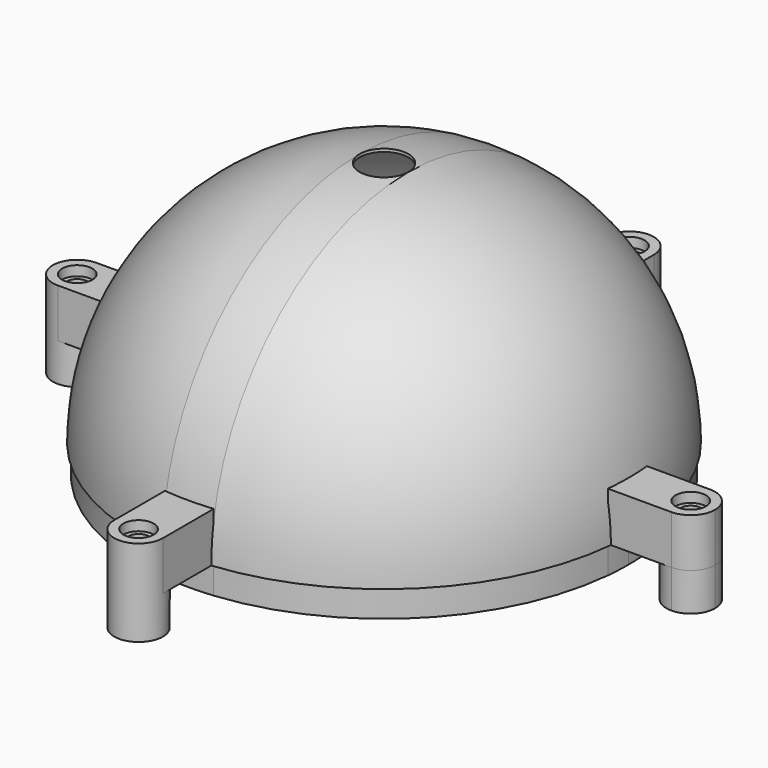
from build123d import *

# Parameters (mm, degrees)
F1_ANGLE = 180
F2_DEPTH = 5
F0_R     = 1.0740208256
F3_DEPTH = 2.84
F4_DEPTH = 3.9
F5_R     = 1.5549983164
F5_R_2   = 1.0740208256
F6_DEPTH = 1
F7_DEPTH = 50


with BuildPart() as f1:
    # F0 (on Top) → F1 (revolve)
    with BuildSketch(Plane.XY):
        with BuildLine():
            Line((24.975187687, 2.5), (25.2766690844, 2.5))
            ThreePointArc((25.2766690844, 2.5), (17.9605122421, 17.9605122421), (2.5, 25.2766690844))
            Line((2.5, 25.2766690844), (2.5, 24.975187687))
            ThreePointArc((2.5, 24.975187687), (17.7483802078, 17.7483802078), (24.975187687, 2.5))
        make_face()
        with BuildLine():
            Line((25.1, 0), (25.4, 0))
            ThreePointArc((25.4, 0), (25.3691485346, 1.2515201272), (25.2766690844, 2.5))
            Line((25.2766690844, 2.5), (24.975187687, 2.5))
            ThreePointArc((24.975187687, 2.5), (25.0687775025, 1.2515568418), (25.1, 0))
        make_face()
        with BuildLine():
            Line((2.5, 24.975187687), (2.5, 25.2766690844))
            ThreePointArc((2.5, 25.2766690844), (0, 25.4), (-2.5, 25.2766690844))
            Line((-2.5, 25.2766690844), (-2.5, 24.975187687))
            ThreePointArc((-2.5, 24.975187687), (0, 25.1), (2.5, 24.975187687))
        make_face()
        with BuildLine():
            Line((-2.5, 24.975187687), (-2.5, 25.2766690844))
            ThreePointArc((-2.5, 25.2766690844), (-17.9605122421, 17.9605122421), (-25.2766690844, 2.5))
            Line((-25.2766690844, 2.5), (-24.975187687, 2.5))
            ThreePointArc((-24.975187687, 2.5), (-17.7483802078, 17.7483802078), (-2.5, 24.975187687))
        make_face()
        with BuildLine():
            Line((-24.975187687, 2.5), (-25.2766690844, 2.5))
            ThreePointArc((-25.2766690844, 2.5), (-25.3691485346, 1.2515201272), (-25.4, 0))
            Line((-25.4, 0), (-25.1, 0))
            ThreePointArc((-25.1, 0), (-25.0687775025, 1.2515568418), (-24.975187687, 2.5))
        make_face()
    revolve(axis=Axis((0.945251435, 0, 0), (1, 0, 0)), revolution_arc=F1_ANGLE)



with BuildPart() as f2:
    # F0 (on Top) → F2 (new body)
    with BuildSketch(Plane.XY):
        with BuildLine():
            ThreePointArc((25.2766690844, 2.5), (25.3691485346, 1.2515201272), (25.4, 0))
            Line((25.4, 0), (28.9766690844, 0))
            ThreePointArc((28.9766690844, 0), (29.7089021314, 1.767766953), (31.4766690844, 2.5))
            Line((31.4766690844, 2.5), (25.2766690844, 2.5))
        make_face()
        with BuildLine():
            Line((28.9766690844, 0), (25.4, 0))
            ThreePointArc((25.4, 0), (25.3691485346, -1.2515201272), (25.2766690844, -2.5))
            Line((25.2766690844, -2.5), (31.4766690844, -2.5))
            ThreePointArc((31.4766690844, -2.5), (29.7089021314, -1.767766953), (28.9766690844, 0))
        make_face()
        with BuildLine():
            ThreePointArc((31.4766690844, 2.5), (29.7089021314, 1.767766953), (28.9766690844, 0))
            Line((28.9766690844, 0), (30.4026482587, 0))
            ThreePointArc((30.4026482587, 0), (31.4766690844, 1.0740208256), (32.55068991, 0))
            Line((32.55068991, 0), (33.9766690844, 0))
            ThreePointArc((33.9766690844, 0), (33.2444360373, 1.767766953), (31.4766690844, 2.5))
        make_face()
        with BuildLine():
            Line((30.4026482587, 0), (28.9766690844, 0))
            ThreePointArc((28.9766690844, 0), (29.7089021314, -1.767766953), (31.4766690844, -2.5))
            ThreePointArc((31.4766690844, -2.5), (33.2444360373, -1.767766953), (33.9766690844, 0))
            Line((33.9766690844, 0), (32.55068991, 0))
            ThreePointArc((32.55068991, 0), (31.4766690844, -1.0740208256), (30.4026482587, 0))
        make_face()
        with BuildLine():
            Line((25.1, 0), (25.4, 0))
            ThreePointArc((25.4, 0), (25.3691485346, 1.2515201272), (25.2766690844, 2.5))
            Line((25.2766690844, 2.5), (24.975187687, 2.5))
            ThreePointArc((24.975187687, 2.5), (25.0687775025, 1.2515568418), (25.1, 0))
        make_face()
        with BuildLine():
            ThreePointArc((25.2766690844, -2.5), (25.3691485346, -1.2515201272), (25.4, 0))
            Line((25.4, 0), (25.1, 0))
            ThreePointArc((25.1, 0), (25.0687775025, -1.2515568418), (24.975187687, -2.5))
            Line((24.975187687, -2.5), (25.2766690844, -2.5))
        make_face()
    extrude(amount=F2_DEPTH)


with BuildPart() as f2b:
    # F0 (on Top) → F2, piece 2 (new body)
    with BuildSketch(Plane.XY):
        with BuildLine():
            Line((2.5, 24.975187687), (2.5, 25.2766690844))
            ThreePointArc((2.5, 25.2766690844), (0, 25.4), (-2.5, 25.2766690844))
            Line((-2.5, 25.2766690844), (-2.5, 24.975187687))
            ThreePointArc((-2.5, 24.975187687), (0, 25.1), (2.5, 24.975187687))
        make_face()
        with BuildLine():
            ThreePointArc((-2.5, 25.2766690844), (0, 25.4), (2.5, 25.2766690844))
            Line((2.5, 25.2766690844), (2.5, 31.4766690844))
            ThreePointArc((2.5, 31.4766690844), (0, 28.9766690844), (-2.5, 31.4766690844))
            Line((-2.5, 31.4766690844), (-2.5, 25.2766690844))
        make_face()
        with BuildLine():
            ThreePointArc((-2.5, 31.4766690844), (0, 28.9766690844), (2.5, 31.4766690844))
            ThreePointArc((2.5, 31.4766690844), (0, 33.9766690844), (-2.5, 31.4766690844))
        make_face()
        with Locations((0, 31.4766690844)):
            Circle(F0_R, mode=Mode.SUBTRACT)
    extrude(amount=F2_DEPTH)


with BuildPart() as f2c:
    # F0 (on Top) → F2, piece 3 (new body)
    with BuildSketch(Plane.XY):
        with BuildLine():
            ThreePointArc((-25.4, 0), (-25.3691485346, 1.2515201272), (-25.2766690844, 2.5))
            Line((-25.2766690844, 2.5), (-31.4766690844, 2.5))
            ThreePointArc((-31.4766690844, 2.5), (-29.7089021314, 1.767766953), (-28.9766690844, 0))
            Line((-28.9766690844, 0), (-25.4, 0))
        make_face()
        with BuildLine():
            ThreePointArc((-28.9766690844, 0), (-29.7089021314, 1.767766953), (-31.4766690844, 2.5))
            ThreePointArc((-31.4766690844, 2.5), (-33.2444360373, 1.767766953), (-33.9766690844, 0))
            Line((-33.9766690844, 0), (-32.55068991, 0))
            ThreePointArc((-32.55068991, 0), (-31.4766690844, 1.0740208256), (-30.4026482587, 0))
            Line((-30.4026482587, 0), (-28.9766690844, 0))
        make_face()
        with BuildLine():
            ThreePointArc((-33.9766690844, 0), (-33.2444360373, -1.767766953), (-31.4766690844, -2.5))
            ThreePointArc((-31.4766690844, -2.5), (-29.7089021314, -1.767766953), (-28.9766690844, 0))
            Line((-28.9766690844, 0), (-30.4026482587, 0))
            ThreePointArc((-30.4026482587, 0), (-31.4766690844, -1.0740208256), (-32.55068991, 0))
            Line((-32.55068991, 0), (-33.9766690844, 0))
        make_face()
        with BuildLine():
            Line((-31.4766690844, -2.5), (-25.2766690844, -2.5))
            ThreePointArc((-25.2766690844, -2.5), (-25.3691485346, -1.2515201272), (-25.4, 0))
            Line((-25.4, 0), (-28.9766690844, 0))
            ThreePointArc((-28.9766690844, 0), (-29.7089021314, -1.767766953), (-31.4766690844, -2.5))
        make_face()
        with BuildLine():
            ThreePointArc((-25.4, 0), (-25.3691485346, -1.2515201272), (-25.2766690844, -2.5))
            Line((-25.2766690844, -2.5), (-24.975187687, -2.5))
            ThreePointArc((-24.975187687, -2.5), (-25.0687775025, -1.2515568418), (-25.1, 0))
            Line((-25.1, 0), (-25.4, 0))
        make_face()
        with BuildLine():
            Line((-24.975187687, 2.5), (-25.2766690844, 2.5))
            ThreePointArc((-25.2766690844, 2.5), (-25.3691485346, 1.2515201272), (-25.4, 0))
            Line((-25.4, 0), (-25.1, 0))
            ThreePointArc((-25.1, 0), (-25.0687775025, 1.2515568418), (-24.975187687, 2.5))
        make_face()
    extrude(amount=F2_DEPTH)


with BuildPart() as f2d:
    # F0 (on Top) → F2, piece 4 (new body)
    with BuildSketch(Plane.XY):
        with BuildLine():
            ThreePointArc((-2.5, -31.4766690844), (0, -33.9766690844), (2.5, -31.4766690844))
            ThreePointArc((2.5, -31.4766690844), (0, -28.9766690844), (-2.5, -31.4766690844))
        make_face()
        with Locations((0, -31.4766690844)):
            Circle(F0_R, mode=Mode.SUBTRACT)
        with BuildLine():
            Line((2.5, -31.4766690844), (2.5, -25.2766690844))
            ThreePointArc((2.5, -25.2766690844), (0, -25.4), (-2.5, -25.2766690844))
            Line((-2.5, -25.2766690844), (-2.5, -31.4766690844))
            ThreePointArc((-2.5, -31.4766690844), (0, -28.9766690844), (2.5, -31.4766690844))
        make_face()
        with BuildLine():
            ThreePointArc((-2.5, -25.2766690844), (0, -25.4), (2.5, -25.2766690844))
            Line((2.5, -25.2766690844), (2.5, -24.975187687))
            ThreePointArc((2.5, -24.975187687), (0, -25.1), (-2.5, -24.975187687))
            Line((-2.5, -24.975187687), (-2.5, -25.2766690844))
        make_face()
    extrude(amount=F2_DEPTH)


with BuildPart() as f1_1:
    add(f1.part)

    add(f2.part)  # F3 merges F2

    add(f2b.part)  # F3 merges F2b

    add(f2c.part)  # F3 merges F2c

    add(f2d.part)  # F3 merges F2d
    # F0 (on Top) → F3 (join)
    with BuildSketch(Plane.XY):
        with BuildLine():
            Line((22.7631280803, 2.5), (24.975187687, 2.5))
            ThreePointArc((24.975187687, 2.5), (17.7483802078, 17.7483802078), (2.5, 24.975187687))
            Line((2.5, 24.975187687), (2.5, 22.7631280803))
            ThreePointArc((2.5, 22.7631280803), (16.1927452892, 16.1927452892), (22.7631280803, 2.5))
        make_face()
        with BuildLine():
            Line((22.9, 0), (25.1, 0))
            ThreePointArc((25.1, 0), (25.0687775025, 1.2515568418), (24.975187687, 2.5))
            Line((24.975187687, 2.5), (22.7631280803, 2.5))
            ThreePointArc((22.7631280803, 2.5), (22.865756417, 1.2518719905), (22.9, 0))
        make_face()
        with BuildLine():
            ThreePointArc((24.975187687, -2.5), (25.0687775025, -1.2515568418), (25.1, 0))
            Line((25.1, 0), (22.9, 0))
            ThreePointArc((22.9, 0), (22.865756417, -1.2518719905), (22.7631280803, -2.5))
            Line((22.7631280803, -2.5), (24.975187687, -2.5))
        make_face()
        with BuildLine():
            ThreePointArc((2.5, -24.975187687), (17.7483802078, -17.7483802078), (24.975187687, -2.5))
            Line((24.975187687, -2.5), (22.7631280803, -2.5))
            ThreePointArc((22.7631280803, -2.5), (16.1927452892, -16.1927452892), (2.5, -22.7631280803))
            Line((2.5, -22.7631280803), (2.5, -24.975187687))
        make_face()
        with BuildLine():
            ThreePointArc((-2.5, -24.975187687), (0, -25.1), (2.5, -24.975187687))
            Line((2.5, -24.975187687), (2.5, -22.7631280803))
            ThreePointArc((2.5, -22.7631280803), (0, -22.9), (-2.5, -22.7631280803))
            Line((-2.5, -22.7631280803), (-2.5, -24.975187687))
        make_face()
        with BuildLine():
            ThreePointArc((-24.975187687, -2.5), (-17.7483802078, -17.7483802078), (-2.5, -24.975187687))
            Line((-2.5, -24.975187687), (-2.5, -22.7631280803))
            ThreePointArc((-2.5, -22.7631280803), (-16.1927452892, -16.1927452892), (-22.7631280803, -2.5))
            Line((-22.7631280803, -2.5), (-24.975187687, -2.5))
        make_face()
        with BuildLine():
            ThreePointArc((-25.1, 0), (-25.0687775025, -1.2515568418), (-24.975187687, -2.5))
            Line((-24.975187687, -2.5), (-22.7631280803, -2.5))
            ThreePointArc((-22.7631280803, -2.5), (-22.865756417, -1.2518719905), (-22.9, 0))
            Line((-22.9, 0), (-25.1, 0))
        make_face()
        with BuildLine():
            Line((-22.7631280803, 2.5), (-24.975187687, 2.5))
            ThreePointArc((-24.975187687, 2.5), (-25.0687775025, 1.2515568418), (-25.1, 0))
            Line((-25.1, 0), (-22.9, 0))
            ThreePointArc((-22.9, 0), (-22.865756417, 1.2518719905), (-22.7631280803, 2.5))
        make_face()
        with BuildLine():
            Line((-2.5, 22.7631280803), (-2.5, 24.975187687))
            ThreePointArc((-2.5, 24.975187687), (-17.7483802078, 17.7483802078), (-24.975187687, 2.5))
            Line((-24.975187687, 2.5), (-22.7631280803, 2.5))
            ThreePointArc((-22.7631280803, 2.5), (-16.1927452892, 16.1927452892), (-2.5, 22.7631280803))
        make_face()
        with BuildLine():
            Line((2.5, 22.7631280803), (2.5, 24.975187687))
            ThreePointArc((2.5, 24.975187687), (0, 25.1), (-2.5, 24.975187687))
            Line((-2.5, 24.975187687), (-2.5, 22.7631280803))
            ThreePointArc((-2.5, 22.7631280803), (0, 22.9), (2.5, 22.7631280803))
        make_face()
    extrude(amount=-F3_DEPTH)

    # F0 (on Top) → F4 (join)
    with BuildSketch(Plane.XY):
        with BuildLine():
            ThreePointArc((-28.9766690844, 0), (-29.7089021314, 1.767766953), (-31.4766690844, 2.5))
            ThreePointArc((-31.4766690844, 2.5), (-33.2444360373, 1.767766953), (-33.9766690844, 0))
            Line((-33.9766690844, 0), (-32.55068991, 0))
            ThreePointArc((-32.55068991, 0), (-31.4766690844, 1.0740208256), (-30.4026482587, 0))
            Line((-30.4026482587, 0), (-28.9766690844, 0))
        make_face()
        with BuildLine():
            ThreePointArc((-33.9766690844, 0), (-33.2444360373, -1.767766953), (-31.4766690844, -2.5))
            ThreePointArc((-31.4766690844, -2.5), (-29.7089021314, -1.767766953), (-28.9766690844, 0))
            Line((-28.9766690844, 0), (-30.4026482587, 0))
            ThreePointArc((-30.4026482587, 0), (-31.4766690844, -1.0740208256), (-32.55068991, 0))
            Line((-32.55068991, 0), (-33.9766690844, 0))
        make_face()
        with BuildLine():
            ThreePointArc((-2.5, -31.4766690844), (0, -33.9766690844), (2.5, -31.4766690844))
            ThreePointArc((2.5, -31.4766690844), (0, -28.9766690844), (-2.5, -31.4766690844))
        make_face()
        with Locations((0, -31.4766690844)):
            Circle(F0_R, mode=Mode.SUBTRACT)
        with BuildLine():
            ThreePointArc((-2.5, 31.4766690844), (0, 28.9766690844), (2.5, 31.4766690844))
            ThreePointArc((2.5, 31.4766690844), (0, 33.9766690844), (-2.5, 31.4766690844))
        make_face()
        with Locations((0, 31.4766690844)):
            Circle(F0_R, mode=Mode.SUBTRACT)
        with BuildLine():
            ThreePointArc((31.4766690844, 2.5), (29.7089021314, 1.767766953), (28.9766690844, 0))
            Line((28.9766690844, 0), (30.4026482587, 0))
            ThreePointArc((30.4026482587, 0), (31.4766690844, 1.0740208256), (32.55068991, 0))
            Line((32.55068991, 0), (33.9766690844, 0))
            ThreePointArc((33.9766690844, 0), (33.2444360373, 1.767766953), (31.4766690844, 2.5))
        make_face()
        with BuildLine():
            Line((30.4026482587, 0), (28.9766690844, 0))
            ThreePointArc((28.9766690844, 0), (29.7089021314, -1.767766953), (31.4766690844, -2.5))
            ThreePointArc((31.4766690844, -2.5), (33.2444360373, -1.767766953), (33.9766690844, 0))
            Line((33.9766690844, 0), (32.55068991, 0))
            ThreePointArc((32.55068991, 0), (31.4766690844, -1.0740208256), (30.4026482587, 0))
        make_face()
    extrude(amount=-F4_DEPTH)

    # F5 (on face) → F6 (cut)
    with BuildSketch(Plane.XY.offset(5)):
        with Locations((0, -31.4766690844)):
            Circle(F5_R)
        with Locations((-31.4766690844, 0)):
            Circle(F5_R)
        with Locations((-31.4766690844, 0)):
            Circle(F5_R_2, mode=Mode.SUBTRACT)
        with Locations((0, 31.4766690844)):
            Circle(F5_R)
        with Locations((31.4766690844, 0)):
            Circle(F5_R)
    extrude(amount=-F6_DEPTH, mode=Mode.SUBTRACT)

    # F0 (on Top) → F7 (cut)
    with BuildSketch(Plane.XY):
        with BuildLine():
            Line((-2.5, 0), (2.5, 0))
            ThreePointArc((2.5, 0), (0, 2.5), (-2.5, 0))
        make_face()
        with BuildLine():
            ThreePointArc((-2.5, 0), (0, -2.5), (2.5, 0))
            Line((2.5, 0), (-2.5, 0))
        make_face()
    extrude(amount=F7_DEPTH, mode=Mode.SUBTRACT)


solid = f1_1.part
